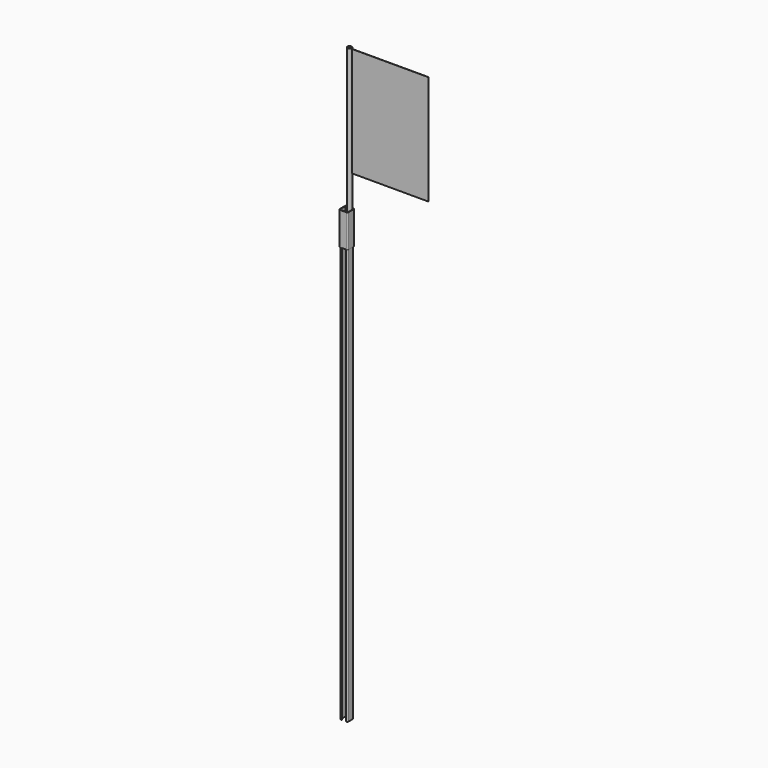
from build123d import *

# Parameters (mm, degrees)
F1_DEPTH      = 2000
F2_W          = 20
F2_H          = 12.1004571627
F3_DEPTH      = 2000.001
F5_DEPTH      = 100
F5_DEPTH_BACK = 50
F6_R          = 10
F6_R_2        = 8
F7_DEPTH      = 700
F9_W          = 350
F9_H          = 500
F10_DEPTH     = 1


with BuildPart() as f1:
    # F0 (on Top) → F1 (new body)
    with BuildSketch(Plane.XY):
        with BuildLine():
            Line((-12.5, -17.5), (12.5, -17.5))
            ThreePointArc((12.5, -17.5), (16.0355339059, -16.0355339059), (17.5, -12.5))
            Line((17.5, -12.5), (17.5, 12.5))
            ThreePointArc((17.5, 12.5), (16.0355339059, 16.0355339059), (12.5, 17.5))
            Line((12.5, 17.5), (-12.5, 17.5))
            ThreePointArc((-12.5, 17.5), (-16.0355339059, 16.0355339059), (-17.5, 12.5))
            Line((-17.5, 12.5), (-17.5, -12.5))
            ThreePointArc((-17.5, -12.5), (-16.0355339059, -16.0355339059), (-12.5, -17.5))
        make_face()
        with BuildLine():
            ThreePointArc((-12.5, -15.5), (-14.6213203436, -14.6213203436), (-15.5, -12.5))
            Line((-15.5, -12.5), (-15.5, 12.5))
            ThreePointArc((-15.5, 12.5), (-14.6213203436, 14.6213203436), (-12.5, 15.5))
            Line((-12.5, 15.5), (12.5, 15.5))
            ThreePointArc((12.5, 15.5), (14.6213203436, 14.6213203436), (15.5, 12.5))
            Line((15.5, 12.5), (15.5, -12.5))
            ThreePointArc((15.5, -12.5), (14.6213203436, -14.6213203436), (12.5, -15.5))
            Line((12.5, -15.5), (-12.5, -15.5))
        make_face(mode=Mode.SUBTRACT)
    extrude(amount=-F1_DEPTH)

    # F2 (on Top) → F3 (cut, through all)
    with BuildSketch(Plane.XY):
        with Locations((0, -17.213780956)):
            Rectangle(F2_W, F2_H)
    extrude(amount=-F3_DEPTH, mode=Mode.SUBTRACT)


with BuildPart() as f5:
    # F4 (on Top) → F5 (new body, two sides)
    with BuildSketch(Plane.XY) as f5_sk:
        with BuildLine():
            ThreePointArc((-20, -15), (-18.5355339059, -18.5355339059), (-15, -20))
            Line((-15, -20), (15, -20))
            ThreePointArc((15, -20), (18.5355339059, -18.5355339059), (20, -15))
            Line((20, -15), (20, 15))
            ThreePointArc((20, 15), (18.5355339059, 18.5355339059), (15, 20))
            Line((15, 20), (-15, 20))
            ThreePointArc((-15, 20), (-18.5355339059, 18.5355339059), (-20, 15))
            Line((-20, 15), (-20, -15))
        make_face()
        with BuildLine():
            ThreePointArc((-18, 15), (-17.1213203436, 17.1213203436), (-15, 18))
            Line((-15, 18), (15, 18))
            ThreePointArc((15, 18), (17.1213203436, 17.1213203436), (18, 15))
            Line((18, 15), (18, -15))
            ThreePointArc((18, -15), (17.1213203436, -17.1213203436), (15, -18))
            Line((15, -18), (-15, -18))
            ThreePointArc((-15, -18), (-17.1213203436, -17.1213203436), (-18, -15))
            Line((-18, -15), (-18, 15))
        make_face(mode=Mode.SUBTRACT)
    extrude(amount=-F5_DEPTH)
    extrude(f5_sk.sketch, amount=F5_DEPTH_BACK)


with BuildPart() as f7:
    # F6 (on Top) → F7 (new body)
    with BuildSketch(Plane.XY):
        with Locations((7.7733634863, 6.8694764307)):
            Circle(F6_R)
        with Locations((7.7733634863, 6.8694764307)):
            Circle(F6_R_2, mode=Mode.SUBTRACT)
    extrude(amount=F7_DEPTH)


with BuildPart() as f10:
    # F9 (on offset) → F10 (new body)
    with BuildSketch(Plane.XZ.offset(-7)):
        with Locations((193.4722058475, 447.5811362267)):
            Rectangle(F9_W, F9_H)
    extrude(amount=F10_DEPTH)


solid = Compound([f1.part, f5.part, f7.part, f10.part])
